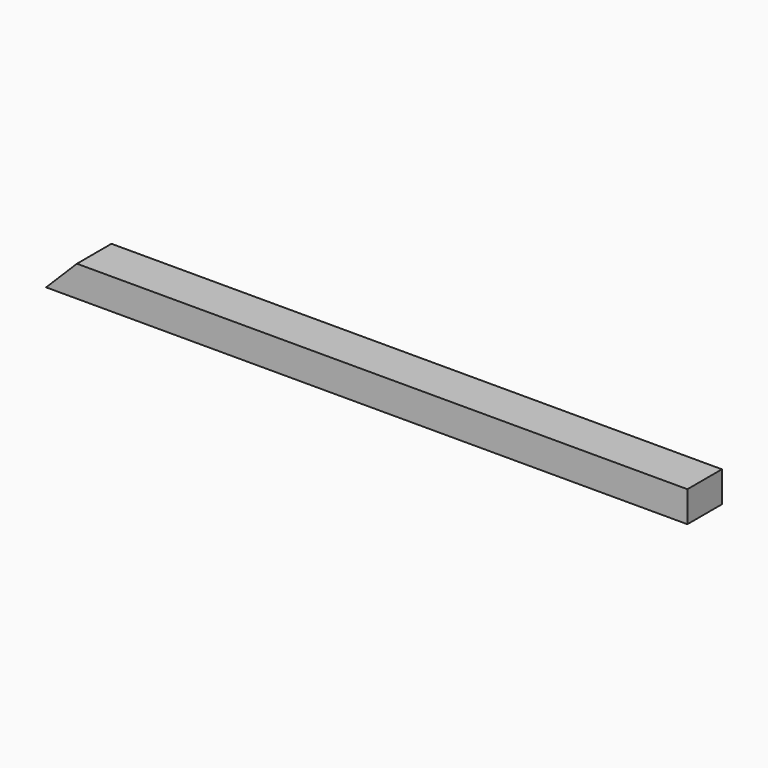
from build123d import *

# Parameters (mm, degrees)
F0_W     = 9
F0_H     = 7
F0_W_2   = 80
F0_W_3   = 15
F1_DEPTH = 5
F3_DEPTH = 7


with BuildPart() as f1:
    # F0 (on Top) → F1 (new body)
    with BuildSketch(Plane.XY):
        with Locations((-44.5, 0)):
            Rectangle(F0_W, F0_H)
        Rectangle(F0_W_2, F0_H)
        with Locations((47.5, 0)):
            Rectangle(F0_W_3, F0_H)
    extrude(amount=F1_DEPTH)

    # F2 (on face) → F3 (cut)
    with BuildSketch(Plane.XZ.offset(3.5)):
        Polygon((-44, 5), (-49, 5), (-49, 0), align=None)
    extrude(amount=-F3_DEPTH, mode=Mode.SUBTRACT)


solid = f1.part
